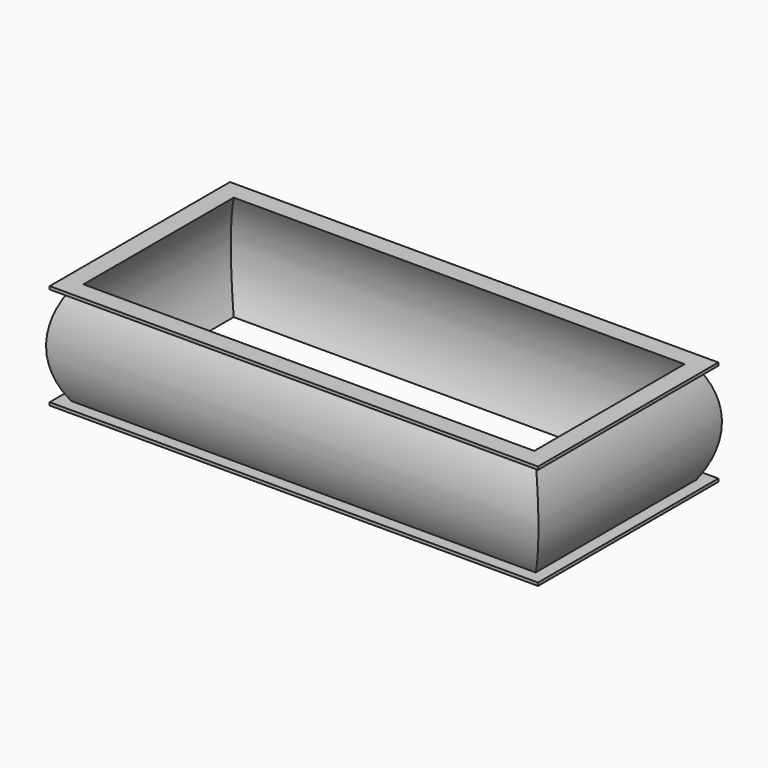
from build123d import *


with BuildPart() as f2:
    # F2: sweep along a path in F0
    with BuildLine(Plane.XY) as f2_path:
        Line((-325, 150), (-325, -150))
        Line((-325, -150), (325, -150))
        Line((325, -150), (325, 150))
        Line((325, 150), (-325, 150))
    # F1 (on Right) → F2 (sweep)
    with BuildSketch(Plane.YZ):
        with BuildLine():
            Line((125, -70), (131.3123023267, -70))
            Line((131.3123023267, -70), (150, -70))
            Line((150, -70), (150, -66))
            Line((150, -66), (133.8930228842, -66))
            ThreePointArc((133.8930228842, -66), (152.6576287858, 0), (133.8930228842, 66))
            Line((133.8930228842, 66), (150, 66))
            Line((150, 66), (150, 70))
            Line((150, 70), (131.3123023267, 70))
            Line((131.3123023267, 70), (125, 70))
            ThreePointArc((125, 70), (144.0386823701, 0), (125, -70))
        make_face()
    sweep(path=f2_path.line, transition=Transition.RIGHT)


solid = f2.part
